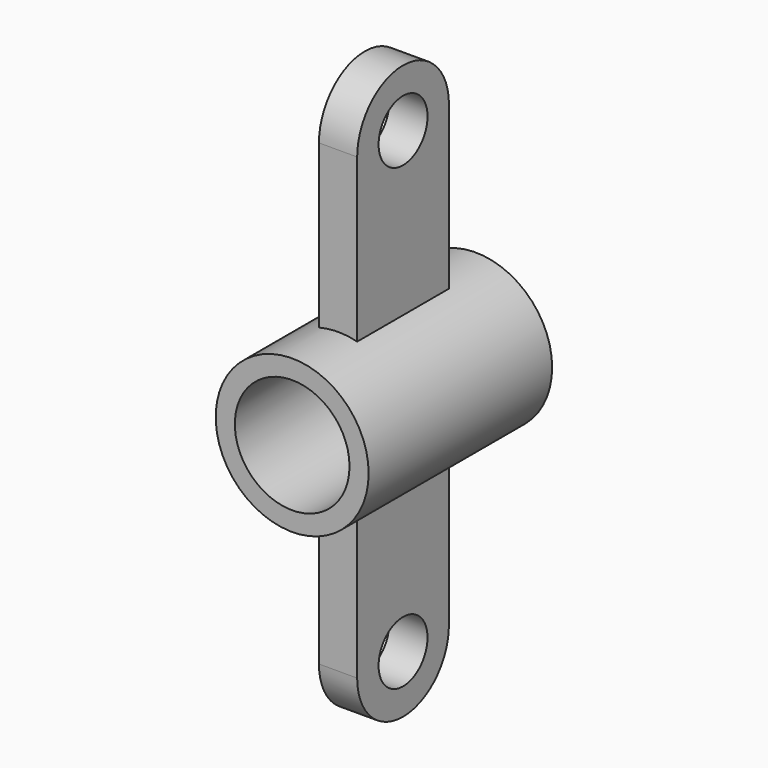
from build123d import *

# Parameters (mm, degrees)
F0_R     = 10
F0_R_2   = 7.5
F1_DEPTH = 30
F2_R     = 4
F3_DEPTH = 2.5
F4_R     = 7.5
F5_DEPTH = 30.001


with BuildPart() as f1:
    # F0 (on Front) → F1 (new body)
    with BuildSketch(Plane.XZ):
        Circle(F0_R)
        Circle(F0_R_2, mode=Mode.SUBTRACT)
    extrude(amount=F1_DEPTH)

    # F2 (on Right) → F3 (join, symmetric)
    with BuildSketch(Plane.YZ):
        with BuildLine():
            Line((-22.5, 0.945997), (-7.5, 0.945997))
            Line((-7.5, 0.945997), (-7.5, 30.945997))
            ThreePointArc((-7.5, 30.945997), (-15, 38.445997), (-22.5, 30.945997))
            Line((-22.5, 30.945997), (-22.5, 0.945997))
        make_face()
        with Locations((-15, 30.945997)):
            Circle(F2_R, mode=Mode.SUBTRACT)
        with BuildLine():
            Line((-7.5, -29.054003), (-7.5, 0.945997))
            Line((-7.5, 0.945997), (-22.5, 0.945997))
            Line((-22.5, 0.945997), (-22.5, -29.054003))
            ThreePointArc((-22.5, -29.054003), (-15, -36.554003), (-7.5, -29.054003))
        make_face()
        with Locations((-15, -29.054003)):
            Circle(F2_R, mode=Mode.SUBTRACT)
    extrude(amount=F3_DEPTH, both=True)

    # F4 (on face) → F5 (cut, through all)
    with BuildSketch(Plane.XZ.offset(30)):
        Circle(F4_R)
    extrude(amount=-F5_DEPTH, mode=Mode.SUBTRACT)


solid = f1.part
